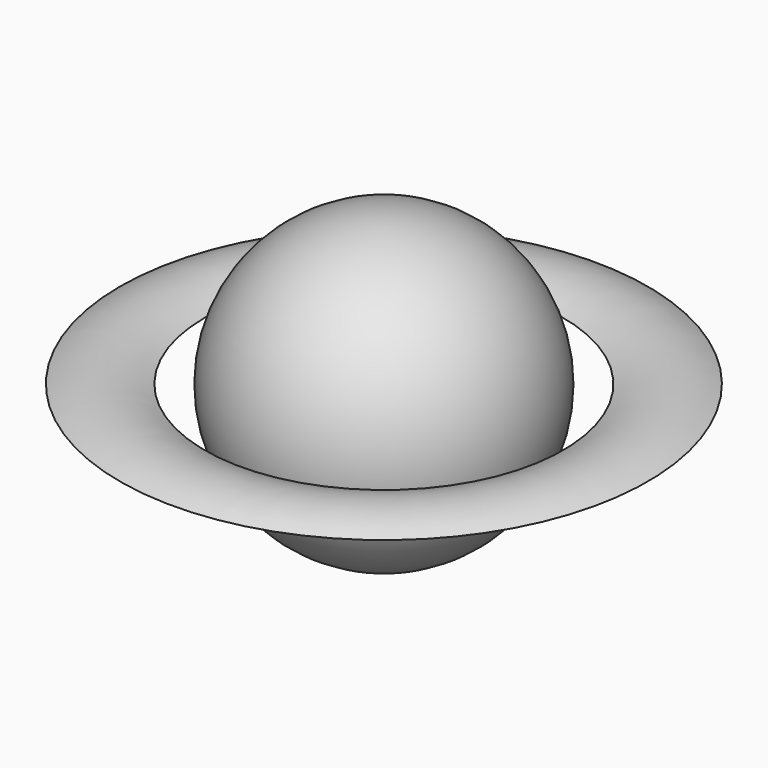
from build123d import *


with BuildPart() as f1:
    # F0 (on Front) → F1 (revolve)
    with BuildSketch(Plane.XZ):
        with BuildLine():
            Line((0, -66.914842), (0, 66.914842))
            ThreePointArc((0, 66.914842), (-66.914842, 0), (0, -66.914842))
        make_face()
    revolve(axis=Axis((0, 0, 0), (0, 0, -1)))


with BuildPart() as f3:
    # F2 (on Front) → F3 (revolve)
    with BuildSketch(Plane.XZ):
        with BuildLine():
            Line((-119.295485, 0), (-81.017323, 0))
            ThreePointArc((-81.017323, 0), (-100.156404, 4.880646), (-119.295485, 0))
        make_face()
        with BuildLine():
            ThreePointArc((-119.295485, 0), (-100.156404, -3.550013), (-81.017323, 0))
            Line((-81.017323, 0), (-119.295485, 0))
        make_face()
    revolve(axis=Axis((0, 0, 0), (0, 0, -1)))


solid = Compound([f1.part, f3.part])
